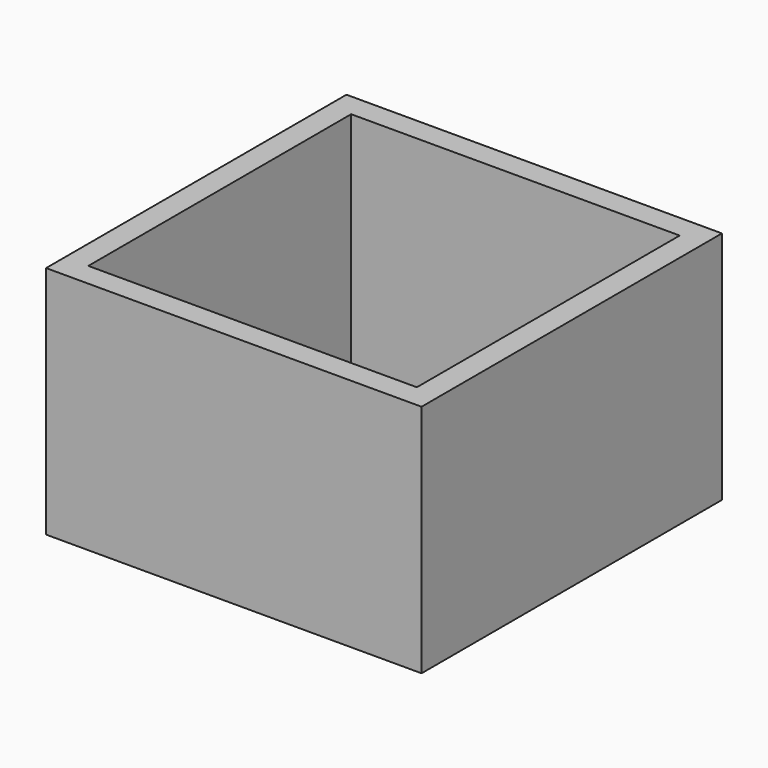
from build123d import *

# Parameters (mm, degrees)
F0_W     = 80
F0_H     = 80
F1_DEPTH = 50
F2_W     = 70
F2_H     = 70
F3_DEPTH = 40
F4_DEPTH = 50.001


with BuildPart() as f1:
    # F0 (on Top) → F1 (new body)
    with BuildSketch(Plane.XY):
        with Locations((40, 40)):
            Rectangle(F0_W, F0_H)
    extrude(amount=F1_DEPTH)

    # F2 (on face) → F3 (cut)
    with BuildSketch(Plane.XY.offset(50)):
        with Locations((40, 40)):
            Rectangle(F2_W, F2_H)
    extrude(amount=-F3_DEPTH, mode=Mode.SUBTRACT)

    # F2 (on face) → F4 (cut, through all)
    with BuildSketch(Plane.XY.offset(50)):
        with Locations((40, 40)):
            Rectangle(F2_W, F2_H)
    extrude(amount=-F4_DEPTH, mode=Mode.SUBTRACT)


solid = f1.part
